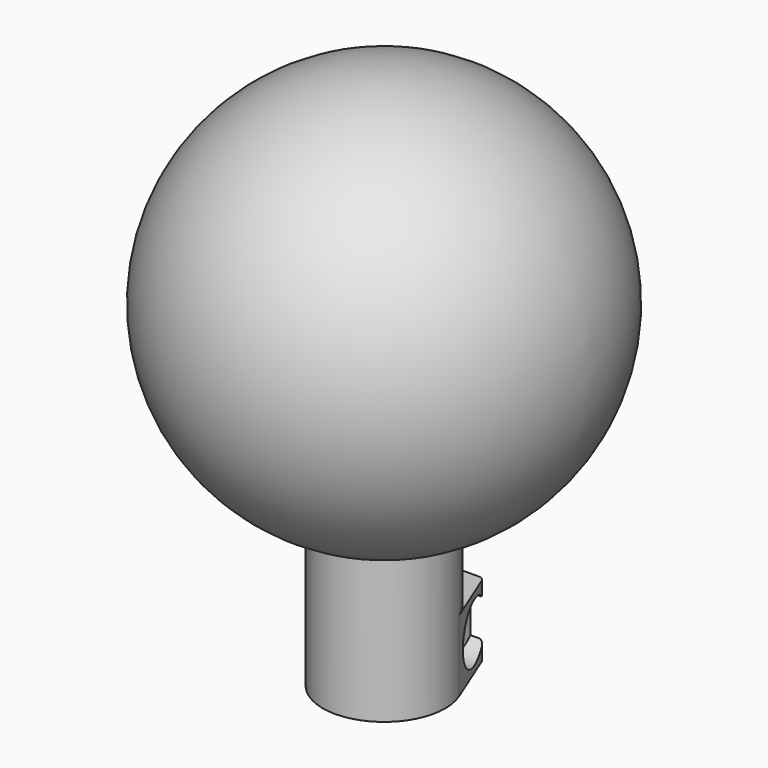
from build123d import *

# Parameters (mm, degrees)
PAD001_DEPTH = 29
SKETCH001_R  = 5.955
PAD_DEPTH    = 51.001
PAD002_DEPTH = 11
PAD003_DEPTH = 13


with BuildPart() as body:
    # Sketch → Pad001 (new body)
    with BuildSketch(Plane.XY):
        with BuildLine():
            ThreePointArc((-1.5, 5.762988), (0, -5.955), (1.5, 5.762988))
            Line((1.5, 3.762988), (1.5, 5.762988))
            Line((-1.5, 3.762988), (1.5, 3.762988))
            Line((-1.5, 5.762988), (-1.5, 3.762988))
        make_face()
    extrude(amount=PAD001_DEPTH)


with BuildPart() as body_1:
    # Body placement: moved
    add(body.part.moved(Location((0, 0, 51))))


with BuildPart() as shifter_shaft:
    # Sketch001 → Pad (new body)
    with BuildSketch(Plane.XY):
        Circle(SKETCH001_R)
    extrude(amount=PAD_DEPTH)

    # Fusion: union Body
    add(body_1.part)


with BuildPart() as body003:
    # Sketch003 → Revolution (revolve)
    with BuildSketch(Plane.XY):
        Polygon((-3, 1.5), (-3, 4.5), (-11.91, 4.5), (-11.91, 0), (11.91, 0), (11.91, 4.5), (3, 4.5), (3, 1.5), align=None)
    revolve(axis=Axis((0, 0, 0), (1, 0, 0)))


with BuildPart() as body003_1:
    # Body003 placement: moved
    add(body003.part.moved(Location((0, 9.455, 5.5))))


with BuildPart() as cut:
    # Sketch002 → Pad002 (new body)
    with BuildSketch(Plane.XY):
        with BuildLine():
            ThreePointArc((-1.712437, 5.703471), (0, -5.955), (1.712437, 5.703471))
            ThreePointArc((1, 6.661233), (1.19764, 6.064393), (1.712437, 5.703471))
            Line((1, 6.661233), (1, 12.21))
            ThreePointArc((1.7, 12.91), (1.205025, 12.704975), (1, 12.21))
            Line((4.32426, 12.91), (1.7, 12.91))
            ThreePointArc((5.252076, 12.283038), (4.884154, 12.738564), (4.32426, 12.91))
            Line((8.772501, 3.527074), (5.252076, 12.283038))
            ThreePointArc((-8.772501, 3.527074), (0, -9.455), (8.772501, 3.527074))
            Line((-8.772501, 3.527074), (-5.252076, 12.283038))
            ThreePointArc((-4.32426, 12.91), (-4.884154, 12.738564), (-5.252076, 12.283038))
            Line((-4.32426, 12.91), (-1.7, 12.91))
            ThreePointArc((-1, 12.21), (-1.205025, 12.704975), (-1.7, 12.91))
            Line((-1, 6.661233), (-1, 12.21))
            ThreePointArc((-1.712437, 5.703471), (-1.19764, 6.064393), (-1, 6.661233))
        make_face()
    extrude(amount=PAD002_DEPTH)

    # Sketch004 (on Face16 of Pad002) → Pad003 (join)
    with BuildSketch(Plane.XY.offset(11)):
        with BuildLine():
            ThreePointArc((-1.712437, 5.703471), (0, -5.955), (1.712437, 5.703471))
            ThreePointArc((1, 6.661233), (1.19764, 6.064393), (1.712437, 5.703471))
            Line((1, 6.661233), (1, 8.215049))
            ThreePointArc((2.236546, 9.186669), (1.38216, 9.001352), (1, 8.215049))
            ThreePointArc((-2.236546, 9.186669), (0, -9.455), (2.236546, 9.186669))
            ThreePointArc((-1, 8.215049), (-1.38216, 9.001352), (-2.236546, 9.186669))
            Line((-1, 6.661233), (-1, 8.215049))
            ThreePointArc((-1.712437, 5.703471), (-1.19764, 6.064393), (-1, 6.661233))
        make_face()
    extrude(amount=PAD003_DEPTH)

    # Cut: cut Body003
    add(body003_1.part, mode=Mode.SUBTRACT)


with BuildPart() as cut001:
    # Sphere → Sphere (revolve)
    with BuildSketch(Plane(origin=(0, 0, 52), x_dir=(1, 0, 0), z_dir=(0, -1, 0))):
        with BuildLine():
            ThreePointArc((0, -31), (31, 0), (0, 31))
            Line((0, 31), (0, -31))
        make_face()
    revolve(axis=Axis((0, 0, 52), (0, 0, 1)))

    # Fusion001: union Cut
    add(cut.part)

    # Cut001: cut Shifter_shaft
    add(shifter_shaft.part, mode=Mode.SUBTRACT)


solid = cut001.part
